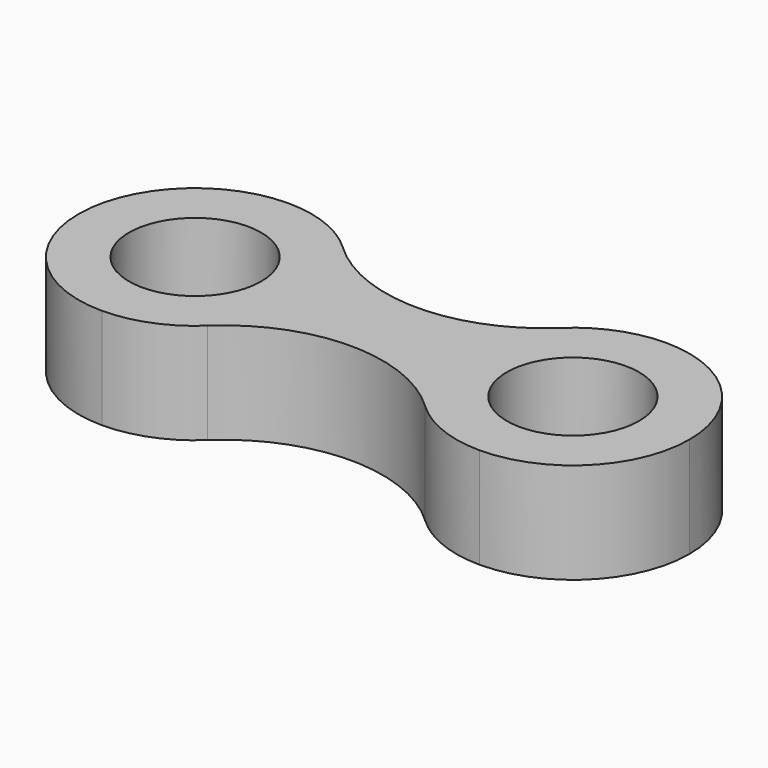
from build123d import *

# Parameters (mm, degrees)
F0_R     = 5.25
F1_DEPTH = 8


with BuildPart() as f1:
    # F0 (on Top) → F1 (new body)
    with BuildSketch(Plane.XY):
        with BuildLine():
            ThreePointArc((6.3519635184, 6.7242144122), (3.4178587367, 8.5953907216), (0, 9.25))
            ThreePointArc((0, 9.25), (-9.25, 0), (0, -9.25))
            ThreePointArc((0, -9.25), (3.4178587367, -8.5953907216), (6.3519635184, -6.7242144122))
            ThreePointArc((6.3519635184, -6.7242144122), (8.494650156, -3.6610679763), (9.25, 0))
            ThreePointArc((9.25, 0), (8.494650156, 3.6610679763), (6.3519635184, 6.7242144122))
        make_face()
        Circle(F0_R, mode=Mode.SUBTRACT)
        with BuildLine():
            ThreePointArc((30, 9.25), (26.5821412521, 8.5953907171), (23.6480364641, 6.7242143956))
            ThreePointArc((23.6480364641, 6.7242143956), (20.75, -7.05e-08), (23.6480365666, -6.7242144924))
            ThreePointArc((23.6480365666, -6.7242144924), (26.5821413177, -8.5953907432), (30, -9.25))
            ThreePointArc((30, -9.25), (36.540737726, -6.540737726), (39.25, 0))
            ThreePointArc((39.25, 0), (36.540737726, 6.540737726), (30, 9.25))
        make_face()
        with Locations((30, 0)):
            Circle(F0_R, mode=Mode.SUBTRACT)
        with BuildLine():
            ThreePointArc((23.6480364641, 6.7242143956), (14.999999988, 3.2854217114), (6.3519635184, 6.7242144122))
            ThreePointArc((6.3519635184, 6.7242144122), (8.494650156, 3.6610679763), (9.25, 0))
            ThreePointArc((9.25, 0), (8.494650156, -3.6610679763), (6.3519635184, -6.7242144122))
            ThreePointArc((6.3519635184, -6.7242144122), (15.0000000585, -3.2854217114), (23.6480365666, -6.7242144924))
            ThreePointArc((23.6480365666, -6.7242144924), (20.75, -7.05e-08), (23.6480364641, 6.7242143956))
        make_face()
    extrude(amount=F1_DEPTH)


solid = f1.part
